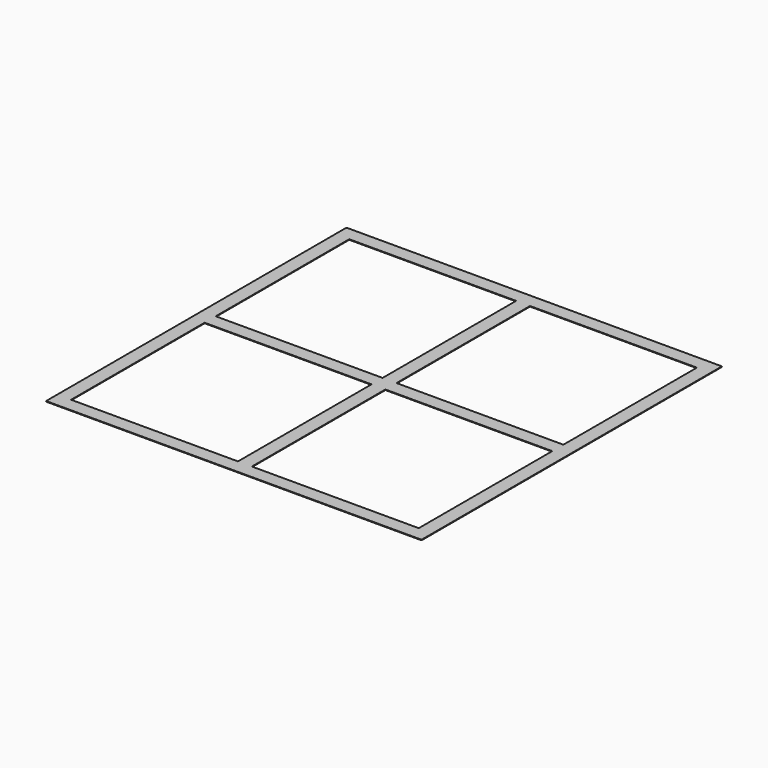
from build123d import *

# Parameters (mm, degrees)
F0_W     = 5
F0_H     = 60
F0_H_2   = 5
F0_W_2   = 60
F1_DEPTH = 0.2


with BuildPart() as f1:
    # F0 (on Top) → F1 (new body)
    with BuildSketch(Plane.XY):
        with Locations((-65.9828191251, 42.8511917304)):
            Rectangle(F0_W, F0_H)
        with Locations((-65.9828191251, 75.3511917304)):
            Rectangle(F0_W, F0_H_2)
        with Locations((-33.4828191251, 75.3511917304)):
            Rectangle(F0_W_2, F0_H_2)
        with Locations((-0.9828191251, 75.3511917304)):
            Rectangle(F0_W, F0_H_2)
        with Locations((-0.9828191251, 42.8511917304)):
            Rectangle(F0_W, F0_H)
        with Locations((31.5171808749, 75.3511917304)):
            Rectangle(F0_W_2, F0_H_2)
        with Locations((64.0171808749, 75.3511917304)):
            Rectangle(F0_W, F0_H_2)
        with Locations((64.0171808749, 42.8511917304)):
            Rectangle(F0_W, F0_H)
        with Locations((64.0171808749, 10.3511917304)):
            Rectangle(F0_W, F0_H_2)
        with Locations((31.5171808749, 10.3511917304)):
            Rectangle(F0_W_2, F0_H_2)
        with Locations((-0.9828191251, 10.3511917304)):
            Rectangle(F0_W, F0_H_2)
        with Locations((-33.4828191251, 10.3511917304)):
            Rectangle(F0_W_2, F0_H_2)
        with Locations((-65.9828191251, 10.3511917304)):
            Rectangle(F0_W, F0_H_2)
        with Locations((-65.9828191251, -22.1488082696)):
            Rectangle(F0_W, F0_H)
        with Locations((-0.9828191251, -22.1488082696)):
            Rectangle(F0_W, F0_H)
        with Locations((-65.9828191251, -54.6488082696)):
            Rectangle(F0_W, F0_H_2)
        with Locations((-33.4828191251, -54.6488082696)):
            Rectangle(F0_W_2, F0_H_2)
        with Locations((-0.9828191251, -54.6488082696)):
            Rectangle(F0_W, F0_H_2)
        with Locations((31.5171808749, -54.6488082696)):
            Rectangle(F0_W_2, F0_H_2)
        with Locations((64.0171808749, -54.6488082696)):
            Rectangle(F0_W, F0_H_2)
        with Locations((64.0171808749, -22.1488082696)):
            Rectangle(F0_W, F0_H)
    extrude(amount=F1_DEPTH)


solid = f1.part
